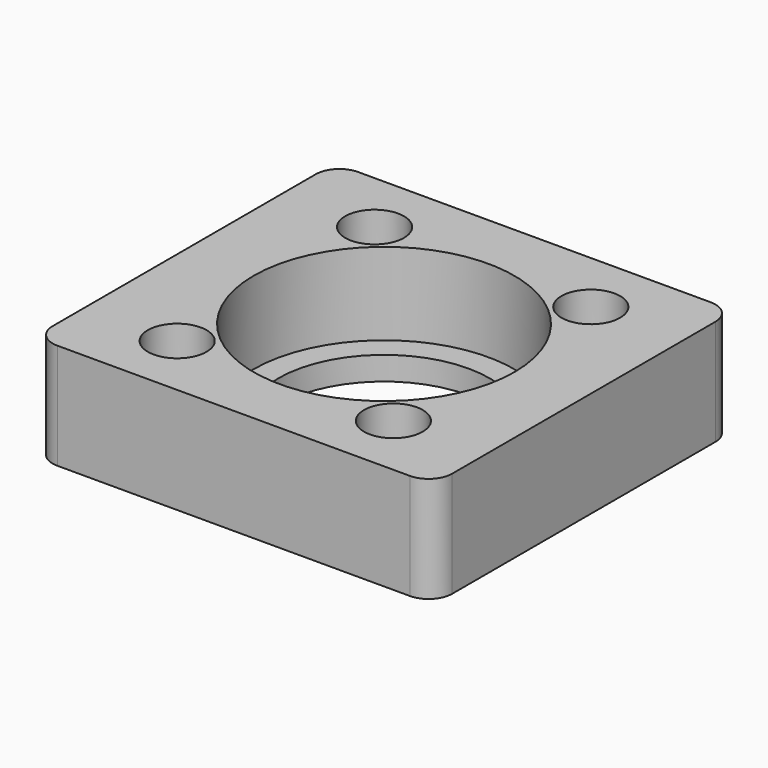
from build123d import *

# Parameters (mm, degrees)
SKETCH_W      = 34
SKETCH_H      = 32
SKETCH_R      = 2.5
SKETCH_R_2    = 11.1
PAD_DEPTH     = 7
SKETCH001_W   = 34
SKETCH001_H   = 32
SKETCH001_R   = 2.5
SKETCH001_R_2 = 9
PAD001_DEPTH  = 2
FILLET_R      = 2


with BuildPart() as part:
    # Sketch → Pad (new body)
    with BuildSketch(Plane.XY):
        Rectangle(SKETCH_W, SKETCH_H)
        with Locations((-9.2, 10.5)):
            Circle(SKETCH_R, mode=Mode.SUBTRACT)
        with Locations((9.2, 10.5)):
            Circle(SKETCH_R, mode=Mode.SUBTRACT)
        with Locations((-9.2, -10.5)):
            Circle(SKETCH_R, mode=Mode.SUBTRACT)
        with Locations((9.2, -10.5)):
            Circle(SKETCH_R, mode=Mode.SUBTRACT)
        Circle(SKETCH_R_2, mode=Mode.SUBTRACT)
    extrude(amount=PAD_DEPTH)

    # Sketch001 → Pad001 (join)
    with BuildSketch(Plane.XY):
        Rectangle(SKETCH001_W, SKETCH001_H)
        with Locations((-9.2, 10.5)):
            Circle(SKETCH001_R, mode=Mode.SUBTRACT)
        with Locations((9.2, 10.5)):
            Circle(SKETCH001_R, mode=Mode.SUBTRACT)
        with Locations((-9.2, -10.5)):
            Circle(SKETCH001_R, mode=Mode.SUBTRACT)
        with Locations((9.2, -10.5)):
            Circle(SKETCH001_R, mode=Mode.SUBTRACT)
        Circle(SKETCH001_R_2, mode=Mode.SUBTRACT)
    extrude(amount=-PAD001_DEPTH)

    # Fillet
    fillet_edges = [part.edges().sort_by_distance(p)[0] for p in [
        (17, -16, -1),
        (17, -16, 3.5),
        (-17, -16, -1),
        (-17, -16, 3.5),
        (17, 16, 3.5),
        (17, 16, -1),
        (-17, 16, 3.5),
        (-17, 16, -1),
    ]]
    fillet(fillet_edges, radius=FILLET_R)


solid = part.part
